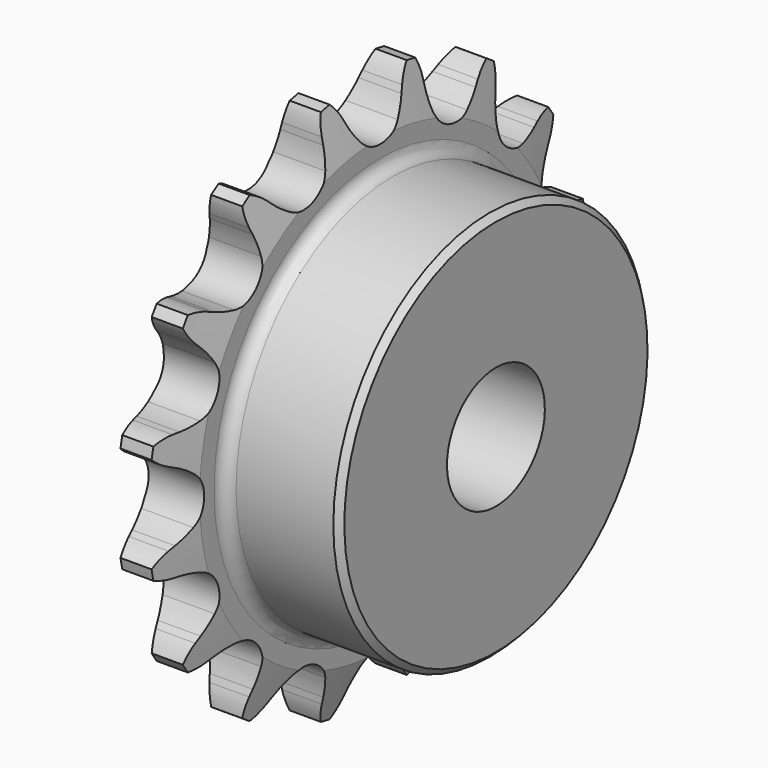
from build123d import *

# Parameters (mm, degrees)
F0_W     = 7.2136
F0_H     = 10.287
F0_H_2   = 17.4625
F0_W_2   = 15.0114
F2_R     = 1.5875
F3_SIZE  = 0.79375
F4_SIZE2 = 6.35
F4_SIZE  = 1.5875
F6_DEPTH = 22.226


with BuildPart() as f1:
    # F0 (on Front) → F1 (revolve)
    with BuildSketch(Plane.XZ):
        with Locations((3.6068, 30.5435)):
            Rectangle(F0_W, F0_H)
        with Locations((3.6068, 16.66875)):
            Rectangle(F0_W, F0_H_2)
        with Locations((14.7193, 16.66875)):
            Rectangle(F0_W_2, F0_H_2)
    revolve(axis=Axis((24.3624299765, 0, 0), (1, 0, 0)))

    # F2
    f2_edges = [f1.edges().sort_by_distance(p)[0] for p in [
        (7.2136, 0, -25.4),
    ]]
    fillet(f2_edges, radius=F2_R)

    # F3
    f3_edges = [f1.edges().sort_by_distance(p)[0] for p in [
        (22.225, 0, -25.4),
    ]]
    chamfer(f3_edges, length=F3_SIZE)

    # F4
    f4_edges = [f1.edges().sort_by_distance(p)[0] for p in [
        (0, 0, -35.687),
        (7.2136, 0, -35.687),
    ]]
    f4_side = f1.faces().sort_by_distance((3.6068, 0, -35.687))[0]
    chamfer(f4_edges, length=F4_SIZE, length2=F4_SIZE2, reference=f4_side)

    # F5 (on face) → F6 (intersect, through all)
    with BuildSketch(Plane(origin=(0, 0, 0), x_dir=(0, -1, 0), z_dir=(-1, 0, 0))):
        with BuildLine():
            ThreePointArc((-3.0902142758, 30.0699408338), (-3.8441959519, 31.1417538349), (-4.4568878106, 32.3001493474))
            Line((-4.4568878106, 32.3001493474), (-4.8164154778, 33.0982711732))
            ThreePointArc((-4.8164154778, 33.0982711732), (-5.7824590494, 34.6345413147), (-7.1308367855, 35.8491373836))
            ThreePointArc((-7.1308367855, 35.8491373836), (-7.9117695854, 34.2109951151), (-8.2163723379, 32.4219777052))
            Line((-8.2163723379, 32.4219777052), (-8.2431045912, 31.5470240041))
            ThreePointArc((-8.2431045912, 31.5470240041), (-8.3658592885, 30.2423390761), (-8.6522824488, 28.963576686))
            ThreePointArc((-8.6522824488, 28.963576686), (-10.9400391594, 26.4115909116), (-14.3622538898, 26.5984290744))
            ThreePointArc((-14.3622538898, 26.5984290744), (-15.4690072063, 27.300118873), (-16.4783594451, 28.135869754))
            Line((-16.4783594451, 28.135869754), (-17.115947698, 28.7356528917))
            ThreePointArc((-17.115947698, 28.7356528917), (-18.596360712, 29.7852925621), (-20.3069050971, 30.3914311902))
            ThreePointArc((-20.3069050971, 30.3914311902), (-20.4015030212, 28.5791350327), (-19.9982919468, 26.8097320375))
            Line((-19.9982919468, 26.8097320375), (-19.688159043, 25.9911502307))
            ThreePointArc((-19.688159043, 25.9911502307), (-19.3022882889, 24.7388023405), (-19.0775476037, 23.4477705432))
            ThreePointArc((-19.0775476037, 23.4477705432), (-20.2145565285, 20.2145565285), (-23.4477705432, 19.0775476037))
            ThreePointArc((-23.4477705432, 19.0775476037), (-24.7388023405, 19.3022882889), (-25.9911502307, 19.688159043))
            Line((-25.9911502307, 19.688159043), (-26.8097320375, 19.9982919468))
            ThreePointArc((-26.8097320375, 19.9982919468), (-28.5791350327, 20.4015030212), (-30.3914311902, 20.3069050971))
            ThreePointArc((-30.3914311902, 20.3069050971), (-29.7852925621, 18.596360712), (-28.7356528917, 17.115947698))
            Line((-28.7356528917, 17.115947698), (-28.135869754, 16.4783594451))
            ThreePointArc((-28.135869754, 16.4783594451), (-27.300118873, 15.4690072063), (-26.5984290744, 14.3622538898))
            ThreePointArc((-26.5984290744, 14.3622538898), (-26.4115909116, 10.9400391594), (-28.963576686, 8.6522824488))
            ThreePointArc((-28.963576686, 8.6522824488), (-30.2423390761, 8.3658592885), (-31.5470240041, 8.2431045912))
            Line((-31.5470240041, 8.2431045912), (-32.4219777052, 8.2163723379))
            ThreePointArc((-32.4219777052, 8.2163723379), (-34.2109951151, 7.9117695854), (-35.8491373836, 7.1308367855))
            ThreePointArc((-35.8491373836, 7.1308367855), (-34.6345413147, 5.7824590494), (-33.0982711732, 4.8164154778))
            Line((-33.0982711732, 4.8164154778), (-32.3001493474, 4.4568878106))
            ThreePointArc((-32.3001493474, 4.4568878106), (-31.1417538349, 3.8441959519), (-30.0699408338, 3.0902142758))
            ThreePointArc((-30.0699408338, 3.0902142758), (-28.5877, 0), (-30.0699408338, -3.0902142758))
            ThreePointArc((-30.0699408338, -3.0902142758), (-31.1417538349, -3.8441959519), (-32.3001493474, -4.4568878106))
            Line((-32.3001493474, -4.4568878106), (-33.0982711732, -4.8164154778))
            ThreePointArc((-33.0982711732, -4.8164154778), (-34.6345413147, -5.7824590494), (-35.8491373836, -7.1308367855))
            ThreePointArc((-35.8491373836, -7.1308367855), (-34.2109951151, -7.9117695854), (-32.4219777052, -8.2163723379))
            Line((-32.4219777052, -8.2163723379), (-31.5470240041, -8.2431045912))
            ThreePointArc((-31.5470240041, -8.2431045912), (-30.2423390761, -8.3658592885), (-28.963576686, -8.6522824488))
            ThreePointArc((-28.963576686, -8.6522824488), (-26.4115909116, -10.9400391594), (-26.5984290744, -14.3622538898))
            ThreePointArc((-26.5984290744, -14.3622538898), (-27.300118873, -15.4690072063), (-28.135869754, -16.4783594451))
            Line((-28.135869754, -16.4783594451), (-28.7356528917, -17.115947698))
            ThreePointArc((-28.7356528917, -17.115947698), (-29.7852925621, -18.596360712), (-30.3914311902, -20.3069050971))
            ThreePointArc((-30.3914311902, -20.3069050971), (-28.5791350327, -20.4015030212), (-26.8097320375, -19.9982919468))
            Line((-26.8097320375, -19.9982919468), (-25.9911502307, -19.688159043))
            ThreePointArc((-25.9911502307, -19.688159043), (-24.7388023405, -19.3022882889), (-23.4477705432, -19.0775476037))
            ThreePointArc((-23.4477705432, -19.0775476037), (-20.2145565285, -20.2145565285), (-19.0775476037, -23.4477705432))
            ThreePointArc((-19.0775476037, -23.4477705432), (-19.3022882889, -24.7388023405), (-19.688159043, -25.9911502307))
            Line((-19.688159043, -25.9911502307), (-19.9982919468, -26.8097320375))
            ThreePointArc((-19.9982919468, -26.8097320375), (-20.4015030212, -28.5791350327), (-20.3069050971, -30.3914311902))
            ThreePointArc((-20.3069050971, -30.3914311902), (-18.596360712, -29.7852925621), (-17.115947698, -28.7356528917))
            Line((-17.115947698, -28.7356528917), (-16.4783594451, -28.135869754))
            ThreePointArc((-16.4783594451, -28.135869754), (-15.4690072063, -27.300118873), (-14.3622538898, -26.5984290744))
            ThreePointArc((-14.3622538898, -26.5984290744), (-10.9400391594, -26.4115909116), (-8.6522824488, -28.963576686))
            ThreePointArc((-8.6522824488, -28.963576686), (-8.3658592885, -30.2423390761), (-8.2431045912, -31.5470240041))
            Line((-8.2431045912, -31.5470240041), (-8.2163723379, -32.4219777052))
            ThreePointArc((-8.2163723379, -32.4219777052), (-7.9117695854, -34.2109951151), (-7.1308367855, -35.8491373836))
            ThreePointArc((-7.1308367855, -35.8491373836), (-5.7824590494, -34.6345413147), (-4.8164154778, -33.0982711732))
            Line((-4.8164154778, -33.0982711732), (-4.4568878106, -32.3001493474))
            ThreePointArc((-4.4568878106, -32.3001493474), (-3.8441959519, -31.1417538349), (-3.0902142758, -30.0699408338))
            ThreePointArc((-3.0902142758, -30.0699408338), (0, -28.5877), (3.0902142758, -30.0699408338))
            ThreePointArc((3.0902142758, -30.0699408338), (3.8441959519, -31.1417538349), (4.4568878106, -32.3001493474))
            Line((4.4568878106, -32.3001493474), (4.8164154778, -33.0982711732))
            ThreePointArc((4.8164154778, -33.0982711732), (5.7824590494, -34.6345413147), (7.1308367855, -35.8491373836))
            ThreePointArc((7.1308367855, -35.8491373836), (7.9117695854, -34.2109951151), (8.2163723379, -32.4219777052))
            Line((8.2163723379, -32.4219777052), (8.2431045912, -31.5470240041))
            ThreePointArc((8.2431045912, -31.5470240041), (8.3658592885, -30.2423390761), (8.6522824488, -28.963576686))
            ThreePointArc((8.6522824488, -28.963576686), (10.9400391594, -26.4115909116), (14.3622538898, -26.5984290744))
            ThreePointArc((14.3622538898, -26.5984290744), (15.4690072063, -27.300118873), (16.4783594451, -28.135869754))
            Line((16.4783594451, -28.135869754), (17.115947698, -28.7356528917))
            ThreePointArc((17.115947698, -28.7356528917), (18.596360712, -29.7852925621), (20.3069050971, -30.3914311902))
            ThreePointArc((20.3069050971, -30.3914311902), (20.4015030212, -28.5791350327), (19.9982919468, -26.8097320375))
            Line((19.9982919468, -26.8097320375), (19.688159043, -25.9911502307))
            ThreePointArc((19.688159043, -25.9911502307), (19.3022882889, -24.7388023405), (19.0775476037, -23.4477705432))
            ThreePointArc((19.0775476037, -23.4477705432), (20.2145565285, -20.2145565285), (23.4477705432, -19.0775476037))
            ThreePointArc((23.4477705432, -19.0775476037), (24.7388023405, -19.3022882889), (25.9911502307, -19.688159043))
            Line((25.9911502307, -19.688159043), (26.8097320375, -19.9982919468))
            ThreePointArc((26.8097320375, -19.9982919468), (28.5791350327, -20.4015030212), (30.3914311902, -20.3069050971))
            ThreePointArc((30.3914311902, -20.3069050971), (29.7852925621, -18.596360712), (28.7356528917, -17.115947698))
            Line((28.7356528917, -17.115947698), (28.135869754, -16.4783594451))
            ThreePointArc((28.135869754, -16.4783594451), (27.300118873, -15.4690072063), (26.5984290744, -14.3622538898))
            ThreePointArc((26.5984290744, -14.3622538898), (26.4115909116, -10.9400391594), (28.963576686, -8.6522824488))
            ThreePointArc((28.963576686, -8.6522824488), (30.2423390761, -8.3658592885), (31.5470240041, -8.2431045912))
            Line((31.5470240041, -8.2431045912), (32.4219777052, -8.2163723379))
            ThreePointArc((32.4219777052, -8.2163723379), (34.2109951151, -7.9117695854), (35.8491373836, -7.1308367855))
            ThreePointArc((35.8491373836, -7.1308367855), (34.6345413147, -5.7824590494), (33.0982711732, -4.8164154778))
            Line((33.0982711732, -4.8164154778), (32.3001493474, -4.4568878106))
            ThreePointArc((32.3001493474, -4.4568878106), (31.1417538349, -3.8441959519), (30.0699408338, -3.0902142758))
            ThreePointArc((30.0699408338, -3.0902142758), (28.5877, 0), (30.0699408338, 3.0902142758))
            ThreePointArc((30.0699408338, 3.0902142758), (31.1417538349, 3.8441959519), (32.3001493474, 4.4568878106))
            Line((32.3001493474, 4.4568878106), (33.0982711732, 4.8164154778))
            ThreePointArc((33.0982711732, 4.8164154778), (34.6345413147, 5.7824590494), (35.8491373836, 7.1308367855))
            ThreePointArc((35.8491373836, 7.1308367855), (34.2109951151, 7.9117695854), (32.4219777052, 8.2163723379))
            Line((32.4219777052, 8.2163723379), (31.5470240041, 8.2431045912))
            ThreePointArc((31.5470240041, 8.2431045912), (30.2423390761, 8.3658592885), (28.963576686, 8.6522824488))
            ThreePointArc((28.963576686, 8.6522824488), (26.4115909116, 10.9400391594), (26.5984290744, 14.3622538898))
            ThreePointArc((26.5984290744, 14.3622538898), (27.300118873, 15.4690072063), (28.135869754, 16.4783594451))
            Line((28.135869754, 16.4783594451), (28.7356528917, 17.115947698))
            ThreePointArc((28.7356528917, 17.115947698), (29.7852925621, 18.596360712), (30.3914311902, 20.3069050971))
            ThreePointArc((30.3914311902, 20.3069050971), (28.5791350327, 20.4015030212), (26.8097320375, 19.9982919468))
            Line((26.8097320375, 19.9982919468), (25.9911502307, 19.688159043))
            ThreePointArc((25.9911502307, 19.688159043), (24.7388023405, 19.3022882889), (23.4477705432, 19.0775476037))
            ThreePointArc((23.4477705432, 19.0775476037), (20.2145565285, 20.2145565285), (19.0775476037, 23.4477705432))
            ThreePointArc((19.0775476037, 23.4477705432), (19.3022882889, 24.7388023405), (19.688159043, 25.9911502307))
            Line((19.688159043, 25.9911502307), (19.9982919468, 26.8097320375))
            ThreePointArc((19.9982919468, 26.8097320375), (20.4015030212, 28.5791350327), (20.3069050971, 30.3914311902))
            ThreePointArc((20.3069050971, 30.3914311902), (18.596360712, 29.7852925621), (17.115947698, 28.7356528917))
            Line((17.115947698, 28.7356528917), (16.4783594451, 28.135869754))
            ThreePointArc((16.4783594451, 28.135869754), (15.4690072063, 27.300118873), (14.3622538898, 26.5984290744))
            ThreePointArc((14.3622538898, 26.5984290744), (10.9400391594, 26.4115909116), (8.6522824488, 28.963576686))
            ThreePointArc((8.6522824488, 28.963576686), (8.3658592885, 30.2423390761), (8.2431045912, 31.5470240041))
            Line((8.2431045912, 31.5470240041), (8.2163723379, 32.4219777052))
            ThreePointArc((8.2163723379, 32.4219777052), (7.9117695854, 34.2109951151), (7.1308367855, 35.8491373836))
            ThreePointArc((7.1308367855, 35.8491373836), (5.7824590494, 34.6345413147), (4.8164154778, 33.0982711732))
            Line((4.8164154778, 33.0982711732), (4.4568878106, 32.3001493474))
            ThreePointArc((4.4568878106, 32.3001493474), (3.8441959519, 31.1417538349), (3.0902142758, 30.0699408338))
            ThreePointArc((3.0902142758, 30.0699408338), (0, 28.5877), (-3.0902142758, 30.0699408338))
        make_face()
    extrude(amount=-F6_DEPTH, mode=Mode.INTERSECT)


solid = f1.part
